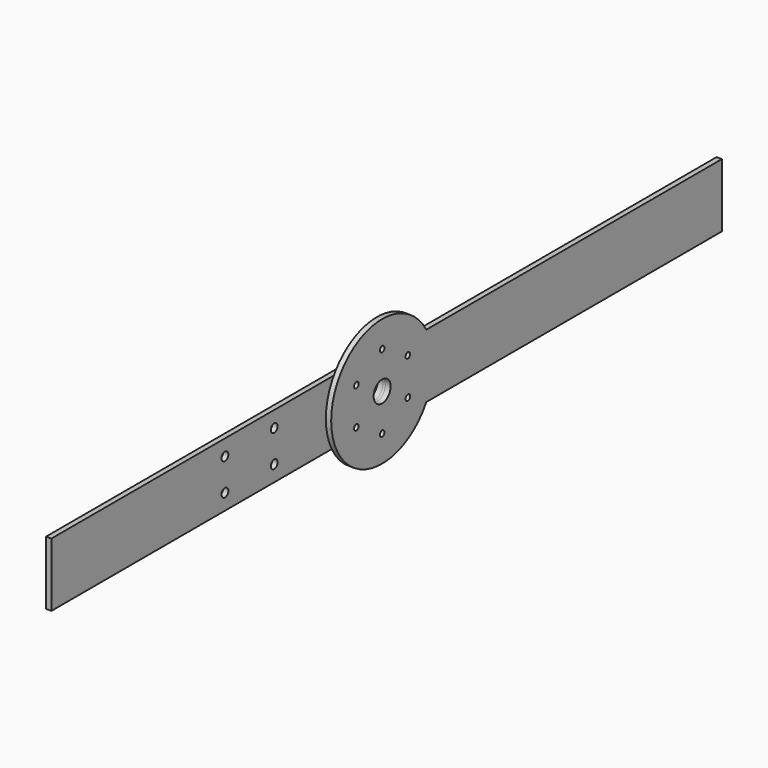
from build123d import *

# Parameters (mm, degrees)
F0_R      = 6.35
F1_DEPTH  = 3.175
F2_R      = 9.525
F2_R_2    = 6.5024
F3_DEPTH  = 1.5875
F5_D      = 3.4544
F6_R      = 9.525
F6_R_2    = 6.5024
F7_DEPTH  = 3.175
F8_D      = 5.1054
F10_DEPTH = 3.175


with BuildPart() as f1:
    # F0 (on Right) → F1 (new body)
    with BuildSketch(Plane.YZ):
        with BuildLine():
            Line((35.9210244843, -12.7), (35.9210244843, 12.7))
            ThreePointArc((35.9210244843, 12.7), (-38.1, 0), (35.9210244843, -12.7))
        make_face()
        Circle(F0_R, mode=Mode.SUBTRACT)
        with BuildLine():
            ThreePointArc((35.9210244843, 12.7), (37.5513051228, 6.4427853895), (38.1, 0))
            ThreePointArc((38.1, 0), (37.5513051228, -6.4427853895), (35.9210244843, -12.7))
            Line((35.9210244843, -12.7), (254, -12.7))
            Line((254, -12.7), (254, 12.7))
            Line((254, 12.7), (35.9210244843, 12.7))
        make_face()
        with BuildLine():
            ThreePointArc((35.9210244843, -12.7), (37.5513051228, -6.4427853895), (38.1, 0))
            ThreePointArc((38.1, 0), (37.5513051228, 6.4427853895), (35.9210244843, 12.7))
            Line((35.9210244843, 12.7), (35.9210244843, -12.7))
        make_face()
    extrude(amount=F1_DEPTH)

    # F5 (through all)
    with Locations(Plane.YZ.offset(3.175)):
        with Locations((0, 22.225), (-19.2474145991, -11.1125), (-19.2474145991, 11.1125), (0, -22.225), (19.2474145991, 11.1125), (19.2474145991, -11.1125)):
            Hole(F5_D / 2)

    # F9 (on face) → F10 (join)
    with BuildSketch(Plane(origin=(0, 0, 0), x_dir=(0, -1, 0), z_dir=(-1, 0, 0))):
        with BuildLine():
            Line((-254, 19.05), (-254, 12.7))
            Line((-254, 12.7), (-35.9210244843, 12.7))
            ThreePointArc((-35.9210244843, 12.7), (-34.6042598667, 15.9422457351), (-32.9955678842, 19.05))
            Line((-32.9955678842, 19.05), (-254, 19.05))
        make_face()
        with BuildLine():
            Line((-35.9210244843, -12.7), (-254, -12.7))
            Line((-254, -12.7), (-254, -19.05))
            Line((-254, -19.05), (-32.9955678842, -19.05))
            ThreePointArc((-32.9955678842, -19.05), (-34.6042598667, -15.9422457351), (-35.9210244843, -12.7))
        make_face()
    extrude(amount=-F10_DEPTH)


with BuildPart() as f3:
    # F2 (on face) → F3 (new body)
    with BuildSketch(Plane(origin=(0, 0, 0), x_dir=(0, -1, 0), z_dir=(-1, 0, 0))):
        Circle(F2_R)
        Circle(F2_R_2, mode=Mode.SUBTRACT)
    extrude(amount=F3_DEPTH)


with BuildPart() as f7:
    # F6 (on face) → F7 (new body)
    with BuildSketch(Plane(origin=(-1.5875, 0, 0), x_dir=(0, -1, 0), z_dir=(-1, 0, 0))):
        with BuildLine():
            Line((241.3, 19.05), (0, 19.05))
            ThreePointArc((0, 19.05), (-13.4703841816, 13.4703841816), (-19.05, 0))
            ThreePointArc((-19.05, 0), (-13.4703841816, -13.4703841816), (0, -19.05))
            Line((0, -19.05), (241.3, -19.05))
            Line((241.3, -19.05), (241.3, 19.05))
        make_face()
        Circle(F6_R, mode=Mode.SUBTRACT)
        Circle(F6_R)
        Circle(F6_R_2, mode=Mode.SUBTRACT)
    extrude(amount=F7_DEPTH)

    # F8 (through all)
    with Locations(Plane(origin=(-1.5875, 0, 0), x_dir=(0, -1, 0), z_dir=(1, 0, 0))):
        with Locations((111.5695, -9.525), (74.7395, -9.525), (74.7395, 9.525), (111.5695, 9.525)):
            Hole(F8_D / 2)


solid = Compound([f1.part, f3.part, f7.part])
